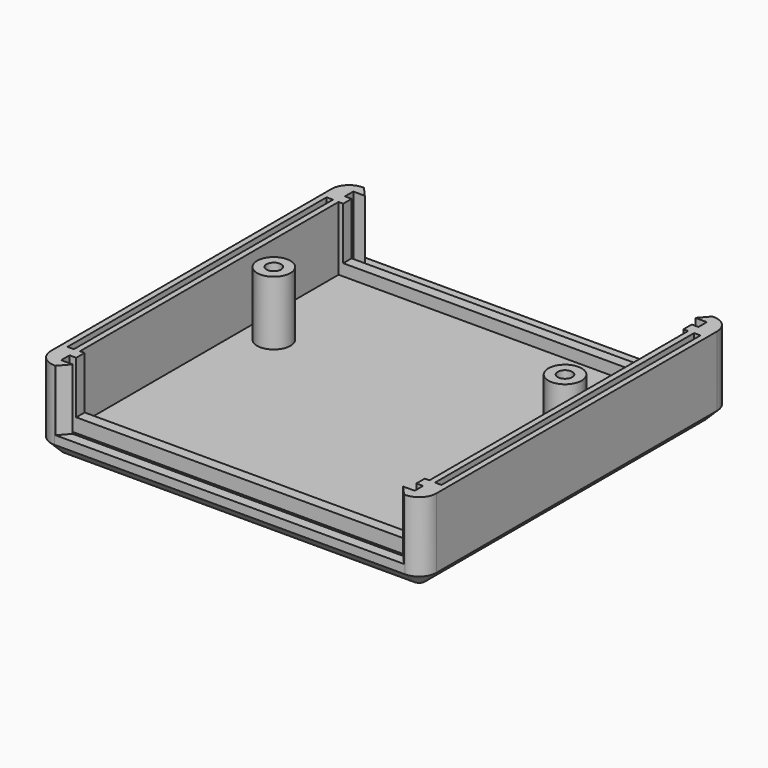
from build123d import *

# Parameters (mm, degrees)
PAD_DEPTH             = 14
SKETCH001_W           = 60
SKETCH001_H           = 55.5
POCKET_DEPTH          = 11
SKETCH002_W           = 60.7
SKETCH002_H           = 1.8
POCKET001_DEPTH       = 11.4
POLARPATTERN_COUNT    = 2
SKETCH003_W           = 58.4
SKETCH003_H           = 2
POCKET002_DEPTH       = 9
POLARPATTERN001_COUNT = 2
POCKET003_DEPTH       = 10.5
POLARPATTERN002_COUNT = 2
SKETCH005_W           = 1.1
SKETCH005_H           = 55.6
POCKET004_DEPTH       = 1.5
POLARPATTERN003_COUNT = 2
SKETCH006_R           = 2.86
SKETCH006_R_2         = 1.25
PAD001_DEPTH          = 11
CHAMFER_SIZE          = 2


with BuildPart() as part:
    # Sketch → Pad (new body)
    with BuildSketch(Plane.XY):
        with BuildLine():
            Line((-33.1, 30.1), (-33.1, -30.1))
            ThreePointArc((-33.1, -30.1), (-32.22132, -32.22132), (-30.1, -33.1))
            Line((-30.1, -33.1), (30.1, -33.1))
            ThreePointArc((30.1, -33.1), (32.22132, -32.22132), (33.1, -30.1))
            Line((33.1, -30.1), (33.1, 30.1))
            ThreePointArc((33.1, 30.1), (32.22132, 32.22132), (30.1, 33.1))
            Line((30.1, 33.1), (-30.1, 33.1))
            ThreePointArc((-30.1, 33.1), (-32.22132, 32.22132), (-33.1, 30.1))
        make_face()
    extrude(amount=PAD_DEPTH)

    # Sketch001 (on DatumPlane) → Pocket (cut)
    with BuildSketch(Plane.XY.offset(14)):
        Rectangle(SKETCH001_W, SKETCH001_H)
    extrude(amount=-POCKET_DEPTH, mode=Mode.SUBTRACT)

    # Sketch002 (on DatumPlane) → Pocket001 (cut)
    with BuildSketch(Plane.XY.offset(14)):
        with Locations((0, 30.45)):
            Rectangle(SKETCH002_W, SKETCH002_H)
    pocket001 = extrude(amount=-POCKET001_DEPTH, mode=Mode.SUBTRACT)

    # PolarPattern: Pocket001 ×2 about axis
    polarpattern_axis = Axis((0, 0, 14), (0, 0, 1))
    for i in range(1, POLARPATTERN_COUNT):
        add(pocket001.rotate(polarpattern_axis, i * 360 / POLARPATTERN_COUNT), mode=Mode.SUBTRACT)

    # Sketch003 (on DatumPlane) → Pocket002 (cut)
    with BuildSketch(Plane.XY.offset(14)):
        with Locations((0, 28.7)):
            Rectangle(SKETCH003_W, SKETCH003_H)
    pocket002 = extrude(amount=-POCKET002_DEPTH, mode=Mode.SUBTRACT)

    # PolarPattern001: Pocket002 ×2 about axis
    polarpattern001_axis = Axis((0, 0, 14), (0, 0, 1))
    for i in range(1, POLARPATTERN001_COUNT):
        add(pocket002.rotate(polarpattern001_axis, i * 360 / POLARPATTERN001_COUNT), mode=Mode.SUBTRACT)

    # Sketch004 (on DatumPlane) → Pocket003 (cut)
    with BuildSketch(Plane.XY.offset(14)):
        Polygon((-28.25, 31.2), (28.25, 31.2), (30, 33.2), (-30, 33.2), align=None)
    pocket003 = extrude(amount=-POCKET003_DEPTH, mode=Mode.SUBTRACT)

    # PolarPattern002: Pocket003 ×2 about axis
    polarpattern002_axis = Axis((0, 0, 14), (0, 0, 1))
    for i in range(1, POLARPATTERN002_COUNT):
        add(pocket003.rotate(polarpattern002_axis, i * 360 / POLARPATTERN002_COUNT), mode=Mode.SUBTRACT)

    # Sketch005 (on DatumPlane) → Pocket004 (cut)
    with BuildSketch(Plane.XY.offset(14)):
        with Locations((-31.55, 0)):
            Rectangle(SKETCH005_W, SKETCH005_H)
    pocket004 = extrude(amount=-POCKET004_DEPTH, mode=Mode.SUBTRACT)

    # PolarPattern003: Pocket004 ×2 about axis
    polarpattern003_axis = Axis((0, 0, 14), (0, 0, 1))
    for i in range(1, POLARPATTERN003_COUNT):
        add(pocket004.rotate(polarpattern003_axis, i * 360 / POLARPATTERN003_COUNT), mode=Mode.SUBTRACT)

    # Sketch006 (on DatumPlane) → Pad001 (join)
    with BuildSketch(Plane.XY.offset(14)):
        with Locations((-25, 7.6)):
            Circle(SKETCH006_R)
        with Locations((-25, 7.6)):
            Circle(SKETCH006_R_2, mode=Mode.SUBTRACT)
        with Locations((25, 7.6)):
            Circle(SKETCH006_R)
        with Locations((25, 7.6)):
            Circle(SKETCH006_R_2, mode=Mode.SUBTRACT)
    extrude(amount=-PAD001_DEPTH)

    # Chamfer
    chamfer_edges = [part.edges().sort_by_distance(p)[0] for p in [
        (0, -33.1, 0),
    ]]
    chamfer(chamfer_edges, length=CHAMFER_SIZE)


solid = part.part
